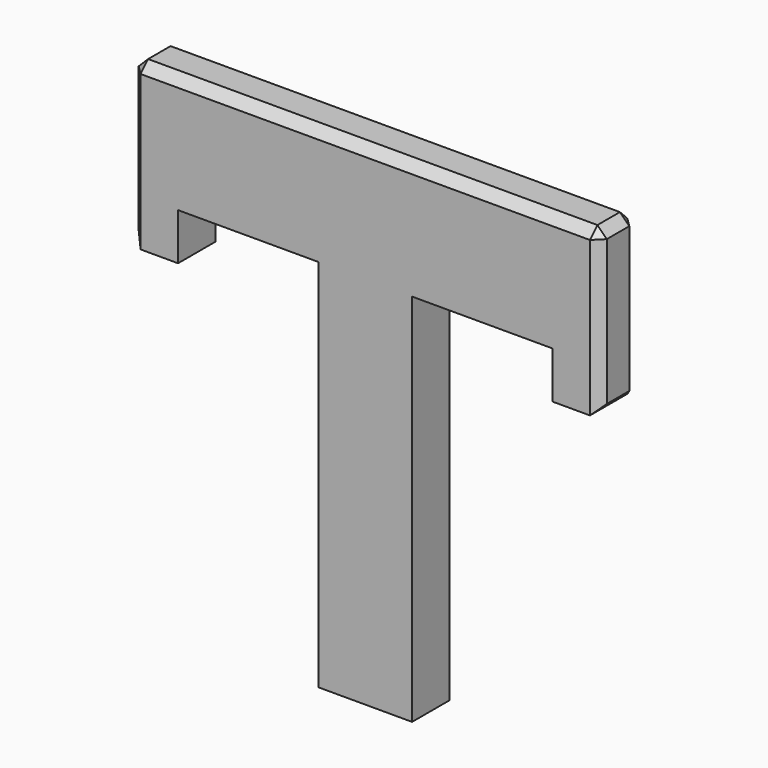
from build123d import *

# Parameters (mm, degrees)
F1_DEPTH = 12.7
F2_SIZE  = 2.54


with BuildPart() as f1:
    # F0 (on Front) → F1 (new body)
    with BuildSketch(Plane.XZ):
        Polygon((-24.902997, -61.232347), (0.497003, -61.232347), (0.497003, 40.367653), (38.597003, 40.367653), (38.597003, 27.667653), (51.297003, 27.667653), (51.297003, 72.117653), (-75.702997, 72.117653), (-75.702997, 27.667653), (-63.002997, 27.667653), (-63.002997, 40.367653), (-24.902997, 40.367653), align=None)
    extrude(amount=-F1_DEPTH)

    # F2
    f2_edges = [f1.edges().sort_by_distance(p)[0] for p in [
        (-12.202997, 0, 72.117653),
        (51.297003, 6.35, 72.117653),
        (-12.202997, 12.7, 72.117653),
        (-75.702997, 6.35, 72.117653),
        (51.297003, 6.35, 27.667653),
        (51.297003, 0, 49.892653),
        (51.297003, 12.7, 49.892653),
        (-75.702997, 6.35, 27.667653),
        (-75.702997, 0, 49.892653),
        (-75.702997, 12.7, 49.892653),
    ]]
    chamfer(f2_edges, length=F2_SIZE)


solid = f1.part
